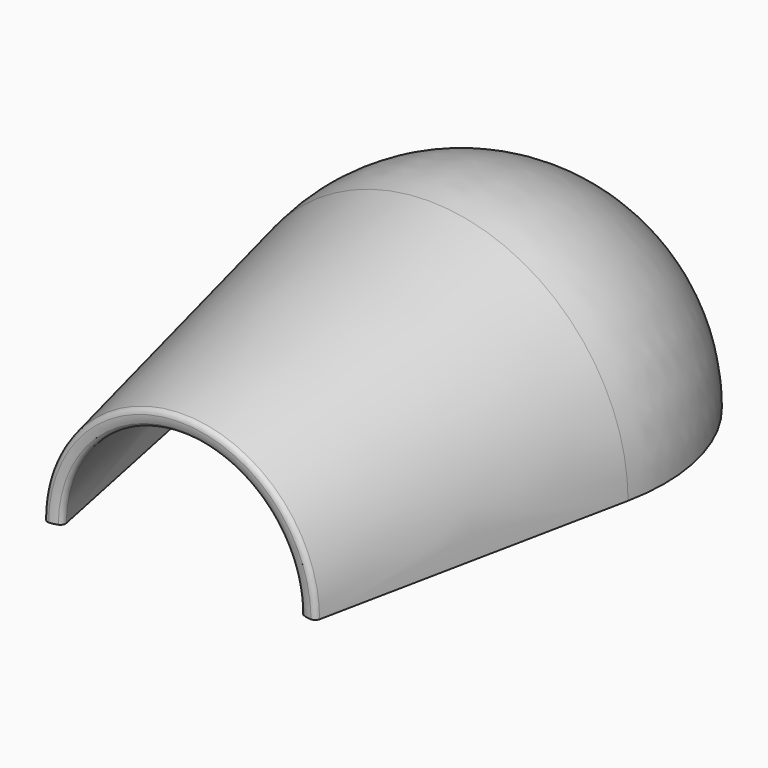
from build123d import *

# Parameters (mm, degrees)
F1_ANGLE = -180
F2_R     = 1


with BuildPart() as f1:
    # F0 (on Top) → F1 (revolve)
    with BuildSketch(Plane.XY):
        with BuildLine():
            Line((0, 34.9), (0, 38.1))
            ThreePointArc((0, 38.1), (-29.520365, 24.08647), (-37.325007, -7.64551))
            Line((-37.325007, -7.64551), (-25.4, -65.862811))
            ThreePointArc((-25.4, -65.862811), (-23.767113, -65.86118), (-22.265091, -65.220669))
            Line((-22.265091, -65.220669), (-34.190099, -7.003368))
            ThreePointArc((-34.190099, -7.003368), (-27.040965, 22.063459), (0, 34.9))
        make_face()
    revolve(axis=Axis((0, 36.5, 0), (0, -1, 0)), revolution_arc=F1_ANGLE)

    # F2
    f2_edges = [f1.edges().sort_by_distance(p)[0] for p in [
        (0, -65.220669, 22.265091),
        (0, -65.862811, 25.4),
    ]]
    fillet(f2_edges, radius=F2_R)


solid = f1.part
